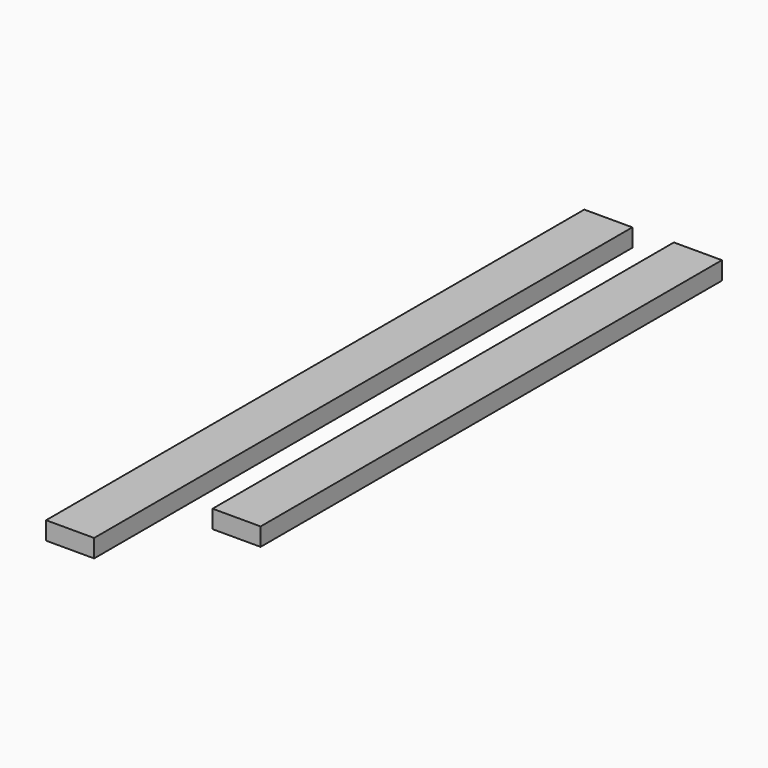
from build123d import *

# Parameters (mm, degrees)
F0_W     = 50.8
F0_H     = 609.6
F0_H_2   = 25.4
F0_H_3   = 660.4
F1_DEPTH = 19.05


with BuildPart() as f1:
    # F0 (on Top) → F1 (new body)
    with BuildSketch(Plane.XY):
        with Locations((25.4, 327.5584)):
            Rectangle(F0_W, F0_H)
        with Locations((-69.033848, 619.321725)):
            Rectangle(F0_W, F0_H_2)
        with Locations((-69.033848, 276.421725)):
            Rectangle(F0_W, F0_H_3)
        with Locations((-69.033848, -66.478275)):
            Rectangle(F0_W, F0_H_2)
    extrude(amount=F1_DEPTH)


solid = f1.part
